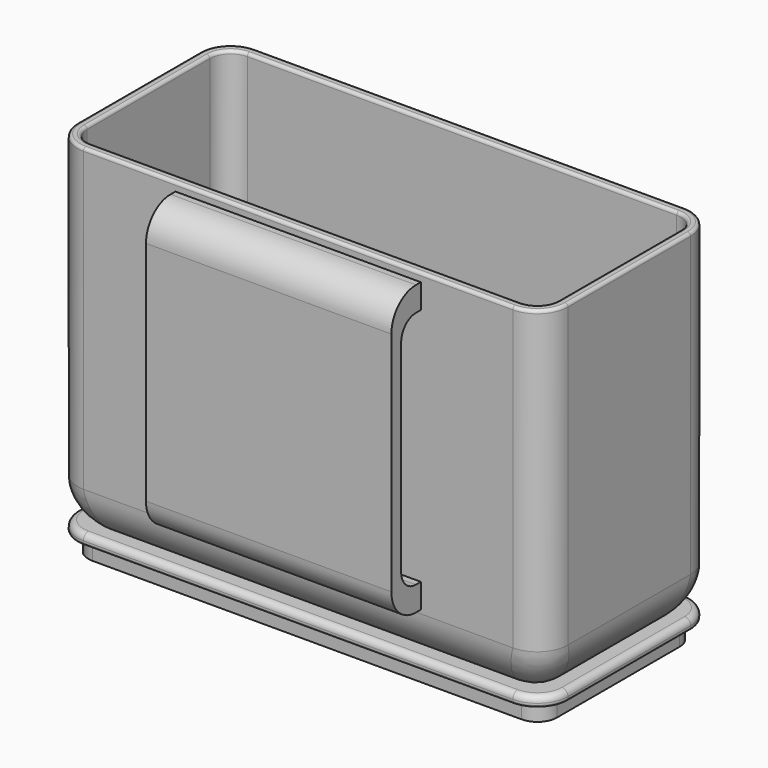
from build123d import *

# Parameters (mm, degrees)
PAD_DEPTH    = 57
THICKNESS_T  = -1.6
FILLET_R     = 7
FILLET001_R  = 8
FILLET002_R  = 0.5
FILLET003_R  = 0.5
SKETCH001_W  = 40
SKETCH001_H  = 4
PAD001_DEPTH = 4
SKETCH002_W  = 40
SKETCH002_H  = 47
PAD002_DEPTH = 2
FILLET004_R  = 5
FILLET005_R  = 3
PAD003_DEPTH = 1.6
PAD004_DEPTH = 3
FILLET006_R  = 1
POCKET_DEPTH = 2
FILLET007_R  = 0.3


with BuildPart() as body:
    # Sketch → Pad (new body)
    with BuildSketch(Plane.XY):
        with BuildLine():
            Line((-35, 0), (0, 0))
            Line((35, 0), (0, 0))
            ThreePointArc((35, 0), (38.535534, 1.464466), (40, 5))
            Line((40, 5), (40, 30))
            ThreePointArc((40, 30), (38.535534, 33.535534), (35, 35))
            Line((35, 35), (0, 35))
            Line((-35, 35), (0, 35))
            ThreePointArc((-35, 35), (-38.535534, 33.535534), (-40, 30))
            Line((-40, 5), (-40, 30))
            ThreePointArc((-40, 5), (-38.535534, 1.464466), (-35, 0))
        make_face()
    extrude(amount=PAD_DEPTH)

    # Thickness
    thickness_openings = [body.faces().sort_by_distance(p)[0] for p in [
        (0, 17.5, 57),
    ]]
    offset(amount=THICKNESS_T, openings=thickness_openings)

    # Fillet
    fillet_edges = [body.edges().sort_by_distance(p)[0] for p in [
        (0, 33.4, 1.6),
    ]]
    fillet(fillet_edges, radius=FILLET_R)

    # Fillet001
    fillet001_edges = [body.edges().sort_by_distance(p)[0] for p in [
        (40, 17.5, 0),
    ]]
    fillet(fillet001_edges, radius=FILLET001_R)

    # Fillet002
    fillet002_edges = [body.edges().sort_by_distance(p)[0] for p in [
        (40, 17.5, 57),
    ]]
    fillet(fillet002_edges, radius=FILLET002_R)

    # Fillet003
    fillet003_edges = [body.edges().sort_by_distance(p)[0] for p in [
        (0, 33.4, 57),
    ]]
    fillet(fillet003_edges, radius=FILLET003_R)

    # Sketch001 (on Face29 of Fillet003) → Pad001 (join)
    with BuildSketch(Plane.XZ):
        with Locations((0, 53.6)):
            Rectangle(SKETCH001_W, SKETCH001_H)
        with Locations((0, 10.6)):
            Rectangle(SKETCH001_W, SKETCH001_H)
    extrude(amount=PAD001_DEPTH)

    # Sketch002 (on Face60 of Pad001) → Pad002 (join)
    with BuildSketch(Plane.XZ.offset(4)):
        with Locations((0, 32.1)):
            Rectangle(SKETCH002_W, SKETCH002_H)
    extrude(amount=PAD002_DEPTH)

    # Fillet004
    fillet004_edges = [body.edges().sort_by_distance(p)[0] for p in [
        (0, -6, 55.6),
        (0, -6, 8.6),
    ]]
    fillet(fillet004_edges, radius=FILLET004_R)

    # Fillet005
    fillet005_edges = [body.edges().sort_by_distance(p)[0] for p in [
        (0, -4, 12.6),
        (0, -4, 51.6),
    ]]
    fillet(fillet005_edges, radius=FILLET005_R)


with BuildPart() as body001:
    # Sketch003 → Pad003 (new body)
    with BuildSketch(Plane.XY):
        with BuildLine():
            Line((-35, 0), (0, 0))
            Line((35, 0), (0, 0))
            ThreePointArc((35, 0), (38.535534, 1.464466), (40, 5))
            Line((40, 5), (40, 30))
            ThreePointArc((40, 30), (38.535534, 33.535534), (35, 35))
            Line((35, 35), (0, 35))
            Line((-35, 35), (0, 35))
            ThreePointArc((-35, 35), (-38.535534, 33.535534), (-40, 30))
            Line((-40, 5), (-40, 30))
            ThreePointArc((-40, 5), (-38.535534, 1.464466), (-35, 0))
        make_face()
    extrude(amount=PAD003_DEPTH)

    # Sketch004 (on Face4 of Pad003) → Pad004 (join)
    with BuildSketch(Plane(origin=(0, 0, 0), x_dir=(1, 0, 0), z_dir=(0, 0, -1))):
        with BuildLine():
            Line((-38.2, -5), (-38.2, -30))
            ThreePointArc((-38.2, -30), (-37.262742, -32.262742), (-35, -33.2))
            Line((-35, -33.2), (0, -33.2))
            Line((35, -33.2), (0, -33.2))
            ThreePointArc((35, -33.2), (37.262742, -32.262742), (38.2, -30))
            Line((38.2, -5), (38.2, -30))
            ThreePointArc((38.2, -5), (37.262742, -2.737258), (35, -1.8))
            Line((35, -1.8), (0, -1.8))
            Line((-35, -1.8), (0, -1.8))
            ThreePointArc((-35, -1.8), (-37.262742, -2.737258), (-38.2, -5))
        make_face()
    extrude(amount=PAD004_DEPTH)

    # Fillet006
    fillet006_edges = [body001.edges().sort_by_distance(p)[0] for p in [
        (0, 0, 1.6),
    ]]
    fillet(fillet006_edges, radius=FILLET006_R)

    # Sketch005 (on Face27 of Fillet006) → Pocket (cut)
    with BuildSketch(Plane(origin=(0, 0, -3), x_dir=(1, 0, 0), z_dir=(0, 0, -1))):
        with BuildLine():
            Line((-36.6, -5), (-36.6, -30))
            ThreePointArc((-36.6, -30), (-36.131371, -31.131371), (-35, -31.6))
            Line((-35, -31.6), (0, -31.6))
            Line((35, -31.6), (0, -31.6))
            ThreePointArc((35, -31.6), (36.131371, -31.131371), (36.6, -30))
            Line((36.6, -5), (36.6, -30))
            ThreePointArc((36.6, -5), (36.131371, -3.868629), (35, -3.4))
            Line((35, -3.4), (0, -3.4))
            Line((-35, -3.4), (0, -3.4))
            ThreePointArc((-35, -3.4), (-36.131371, -3.868629), (-36.6, -5))
        make_face()
    extrude(amount=-POCKET_DEPTH, mode=Mode.SUBTRACT)

    # Fillet007
    fillet007_edges = [body001.edges().sort_by_distance(p)[0] for p in [
        (0, 0, 0),
    ]]
    fillet(fillet007_edges, radius=FILLET007_R)


solid = Compound([body.part, body001.part])
